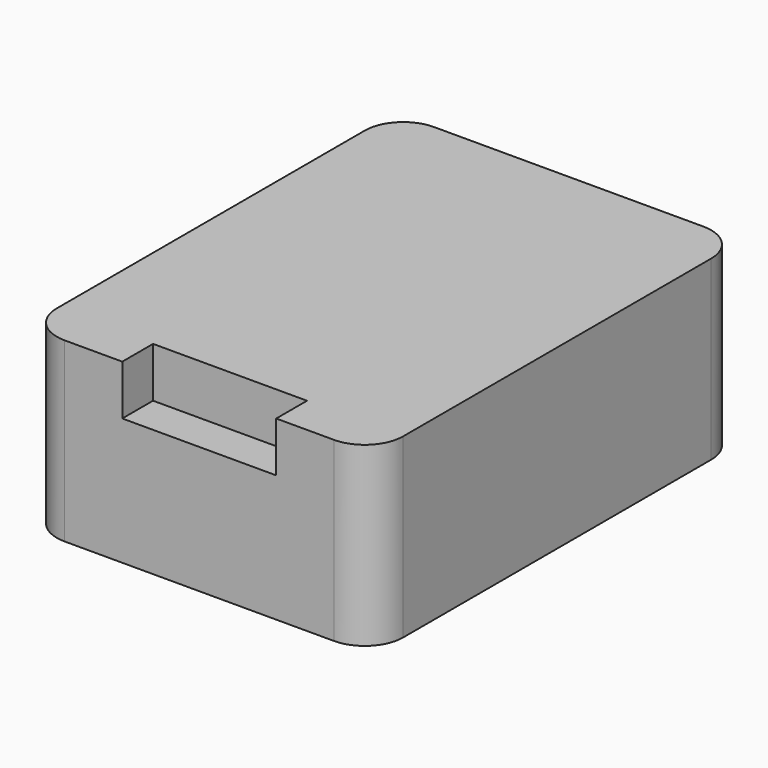
from build123d import *

# Parameters (mm, degrees)
BOX010_W     = 4
BOX010_H     = 1
BOX010_DEPTH = 1.3
BOX001_W     = 9
BOX001_H     = 12
BOX001_DEPTH = 4.6
FILLET_R     = 1


with BuildPart() as cube010:
    # Box010 → Box010 (new body)
    with BuildSketch(Plane(origin=(-2, -6.5, 5.1), x_dir=(1, 0, 0), z_dir=(0, 0, 1))):
        with Locations((2, 0.5)):
            Rectangle(BOX010_W, BOX010_H)
    extrude(amount=BOX010_DEPTH)


with BuildPart() as cut005:
    # Box001 → Box001 (new body)
    with BuildSketch(Plane(origin=(-4.5, -6.5, 1.8), x_dir=(1, 0, 0), z_dir=(0, 0, 1))):
        with Locations((4.5, 6)):
            Rectangle(BOX001_W, BOX001_H)
    extrude(amount=BOX001_DEPTH)

    # Fillet
    fillet_edges = [cut005.edges().sort_by_distance(p)[0] for p in [
        (-4.5, -6.5, 4.1),
        (-4.5, 5.5, 4.1),
        (4.5, -6.5, 4.1),
        (4.5, 5.5, 4.1),
    ]]
    fillet(fillet_edges, radius=FILLET_R)

    # Cut005: cut Cube010
    add(cube010.part, mode=Mode.SUBTRACT)


solid = cut005.part
